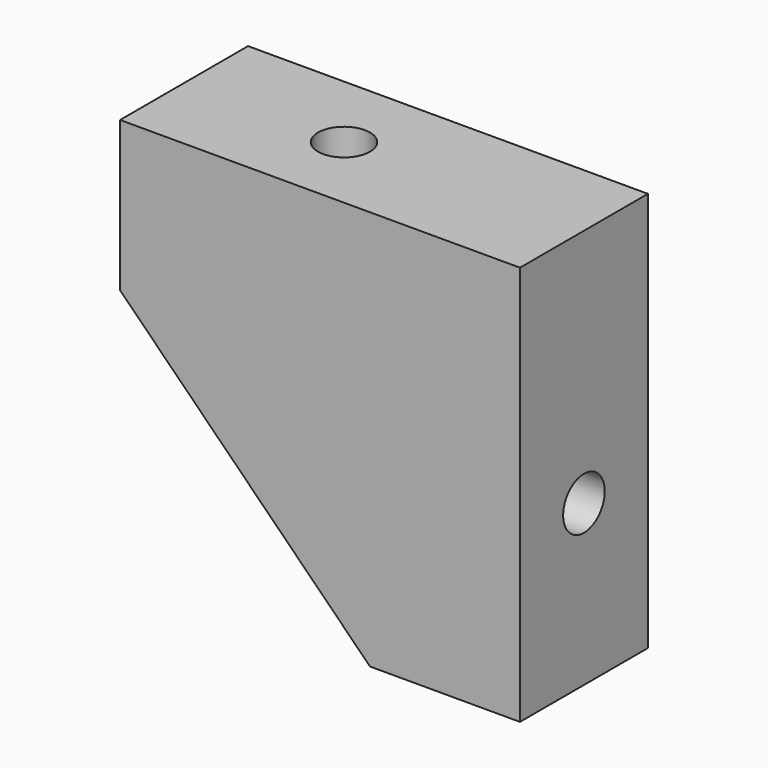
from build123d import *

# Parameters (mm, degrees)
PAD024_DEPTH      = 4
PAD024_DEPTH_BACK = 4
SKETCH047_R       = 1.3
POCKET_DEPTH      = 20.001
SKETCH048_R       = 1.3
POCKET001_DEPTH   = 20.001


with BuildPart() as part:
    # Sketch046 → Pad024 (new body, two sides)
    with BuildSketch(Plane(origin=(118.5, -33.5, -4.5), x_dir=(-1, 0, 0), z_dir=(0, 1, 0))) as pad024_sk:
        Polygon((0, 0), (20, 0), (20, -7.5), (7.5, -20), (0, -20), align=None)
    extrude(amount=PAD024_DEPTH)
    extrude(pad024_sk.sketch, amount=-PAD024_DEPTH_BACK)

    # Sketch047 → Pocket (cut, through all)
    with BuildSketch(Plane(origin=(118.5, -33.5, -4.5), x_dir=(0, 0, -1), z_dir=(1, 0, 0))):
        with Locations((12, 0)):
            Circle(SKETCH047_R)
    extrude(amount=-POCKET_DEPTH, mode=Mode.SUBTRACT)

    # Sketch048 → Pocket001 (cut, through all)
    with BuildSketch(Plane(origin=(118.5, -33.5, -4.5), x_dir=(1, 0, 0), z_dir=(0, 0, 1))):
        with Locations((-12, 0)):
            Circle(SKETCH048_R)
    extrude(amount=-POCKET001_DEPTH, mode=Mode.SUBTRACT)


solid = part.part
